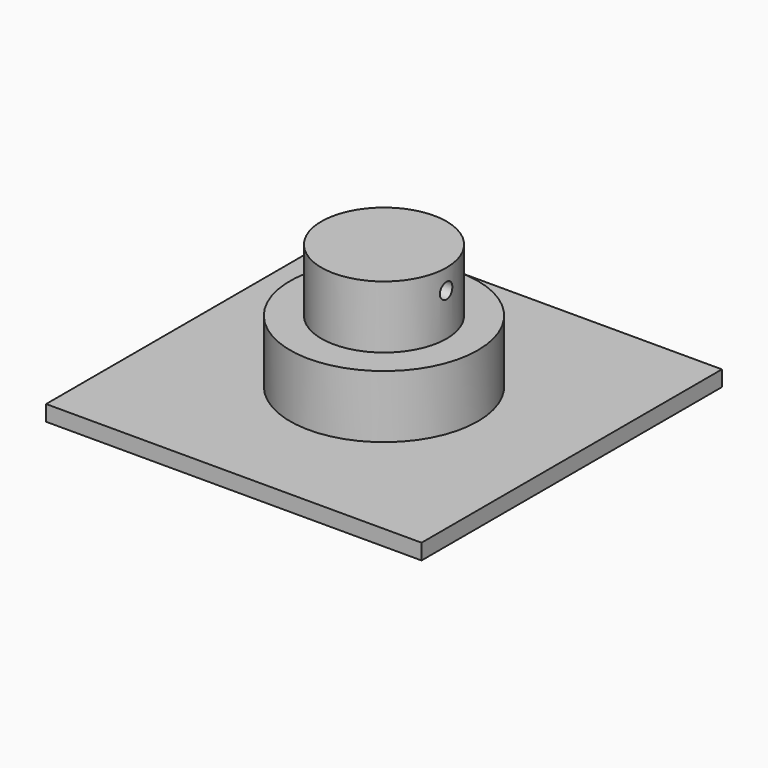
from build123d import *

# Parameters (mm, degrees)
F0_W     = 152.4
F0_H     = 152.4
F1_DEPTH = 6.35
F2_R     = 38.1
F3_DEPTH = 25.4
F4_R     = 25.4
F5_DEPTH = 25.4
F7_D     = 6.35
F7_DEPTH = 76.201
F9_D     = 6.35
F9_DEPTH = 76.201


with BuildPart() as f1:
    # F0 (on Top) → F1 (new body)
    with BuildSketch(Plane.XY):
        Rectangle(F0_W, F0_H)
    extrude(amount=F1_DEPTH)

    # F2 (on face) → F3 (join)
    with BuildSketch(Plane.XY.offset(6.35)):
        Circle(F2_R)
    extrude(amount=F3_DEPTH)

    # F4 (on face) → F5 (join)
    with BuildSketch(Plane.XY.offset(31.75)):
        Circle(F4_R)
    extrude(amount=F5_DEPTH)

    # F7 (through all, one way)
    with BuildSketch(Plane(origin=(0, 0, 0), x_dir=(0, 1, 0), z_dir=(-1, 0, 0))):
        with Locations((0, -48.9269793034)):
            Circle(F7_D / 2)
    extrude(amount=-F7_DEPTH, mode=Mode.SUBTRACT)

    # F9 (through all, one way)
    with BuildSketch(Plane.YZ):
        with Locations((0, 49.2147840559)):
            Circle(F9_D / 2)
    extrude(amount=-F9_DEPTH, mode=Mode.SUBTRACT)


solid = f1.part
